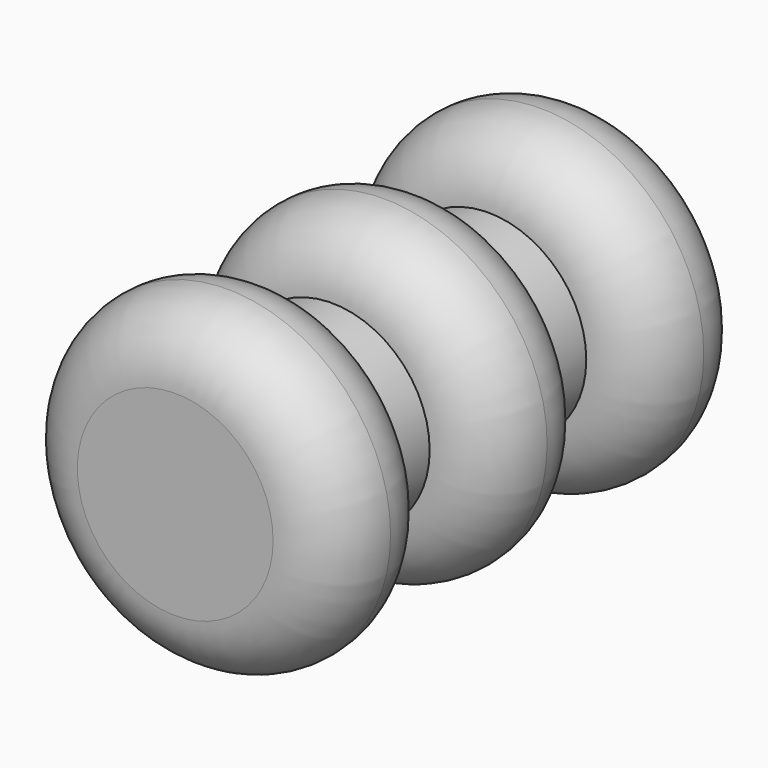
from build123d import *


with BuildPart() as f1:
    # F0 (on Top) → F1 (revolve)
    with BuildSketch(Plane.XY):
        with BuildLine():
            Line((0, 101.6), (0, 0))
            Line((0, 0), (19.05, 0))
            ThreePointArc((19.05, 0), (6.35, 12.7), (19.05, 25.4))
            Line((19.05, 25.4), (19.05, 38.1))
            ThreePointArc((19.05, 38.1), (6.35, 50.8), (19.05, 63.5))
            Line((19.05, 63.5), (19.05, 76.2))
            ThreePointArc((19.05, 76.2), (6.35, 88.9), (19.05, 101.6))
            Line((19.05, 101.6), (0, 101.6))
        make_face()
        with BuildLine():
            ThreePointArc((19.05, 25.4), (6.35, 12.7), (19.05, 0))
            Line((19.05, 0), (19.05, 25.4))
        make_face()
        with BuildLine():
            Line((19.05, 25.4), (19.05, 0))
            ThreePointArc((19.05, 0), (28.0302561211, 3.7197438789), (31.75, 12.7))
            ThreePointArc((31.75, 12.7), (28.0302561211, 21.6802561211), (19.05, 25.4))
        make_face()
        with BuildLine():
            ThreePointArc((31.75, 88.9), (28.0302561211, 97.8802561211), (19.05, 101.6))
            Line((19.05, 101.6), (19.05, 76.2))
            ThreePointArc((19.05, 76.2), (28.0302561211, 79.9197438789), (31.75, 88.9))
        make_face()
        with BuildLine():
            Line((19.05, 76.2), (19.05, 101.6))
            ThreePointArc((19.05, 101.6), (6.35, 88.9), (19.05, 76.2))
        make_face()
        with BuildLine():
            ThreePointArc((19.05, 63.5), (6.35, 50.8), (19.05, 38.1))
            Line((19.05, 38.1), (19.05, 63.5))
        make_face()
        with BuildLine():
            Line((19.05, 63.5), (19.05, 38.1))
            ThreePointArc((19.05, 38.1), (28.0302561211, 41.8197438789), (31.75, 50.8))
            ThreePointArc((31.75, 50.8), (28.0302561211, 59.7802561211), (19.05, 63.5))
        make_face()
    revolve(axis=Axis((0, 50.8, 0), (0, 1, 0)))


solid = f1.part
